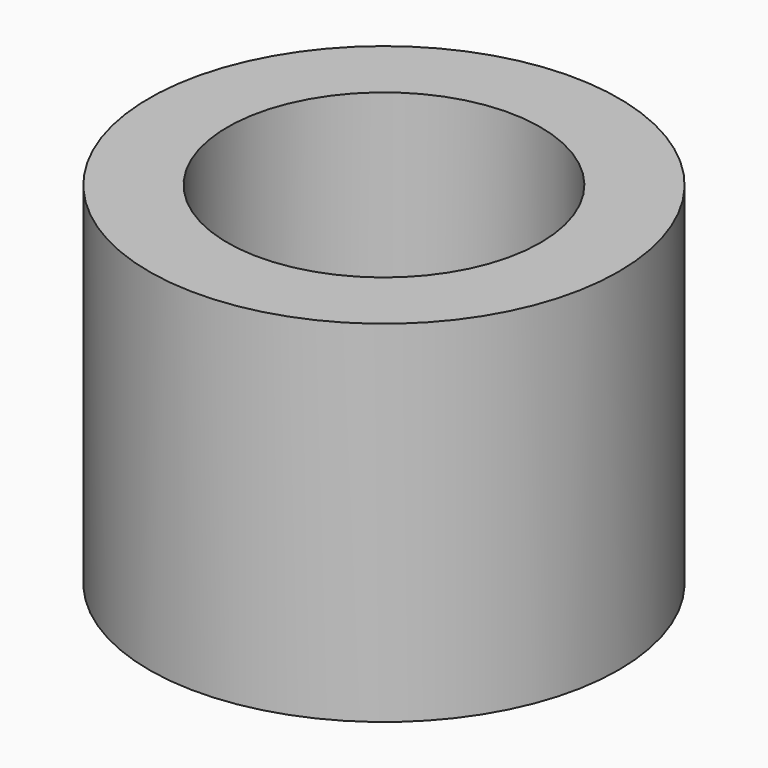
from build123d import *

# Parameters (mm, degrees)
CYLINDER_R     = 12.7
CYLINDER_DEPTH = 28.448
THICKNESS_T    = 6.35


with BuildPart() as part:
    # Cylinder → Cylinder (new body)
    with BuildSketch(Plane.XY):
        Circle(CYLINDER_R)
    extrude(amount=CYLINDER_DEPTH)

    # Thickness
    thickness_openings = [part.faces().sort_by_distance(p)[0] for p in [
        (0, 0, 28.448),
        (0, 0, 0),
    ]]
    offset(amount=THICKNESS_T, openings=thickness_openings)


solid = part.part
